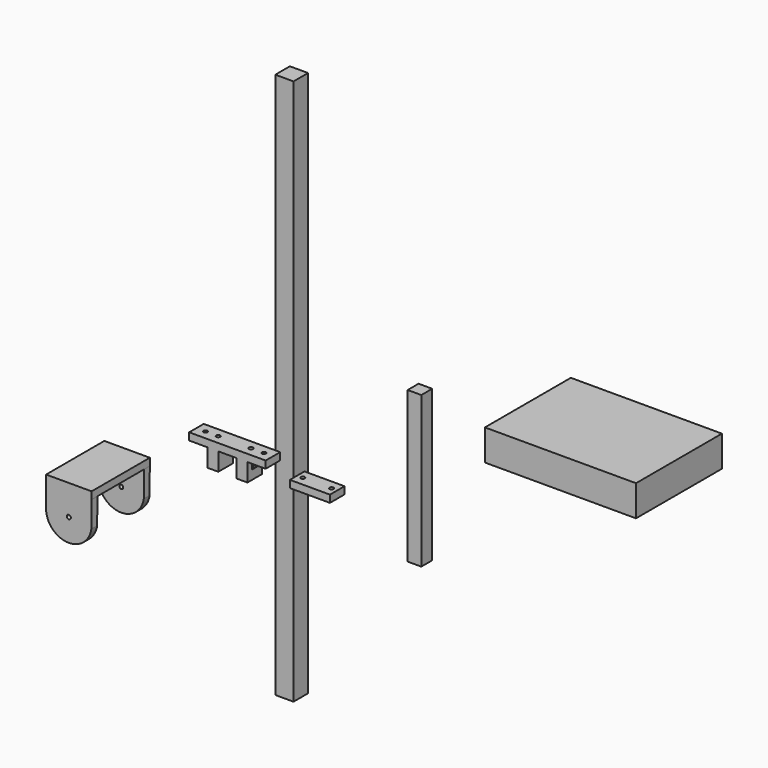
from build123d import *

# Parameters (mm, degrees)
F3_DEPTH  = 5
F4_R      = 1.1
F5_DEPTH  = 13.901
F6_START  = -5
F4_W      = 4
F4_H      = 4
F6_DEPTH  = 5
F7_W      = 22
F7_H      = 10
F8_DEPTH  = 4
F9_W      = 10
F9_H      = 4
F11_DEPTH = 10
F10_W     = 10
F10_H     = 4
F12_DEPTH = 10
F13_W     = 25
F13_H     = 40
F14_DEPTH = 4
F16_DEPTH = 40
F17_W     = 32
F17_H     = 40
F18_DEPTH = 25
F19_W     = 10
F19_H     = 10
F20_DEPTH = 150
F21_R     = 1.1
F22_DEPTH = 40.001
F23_R     = 1.1
F24_DEPTH = 159.001
F25_W     = 83
F25_H     = 59
F26_DEPTH = 8.5
F27_R     = 1.1
F28_DEPTH = 4
F29_W     = 7.5
F29_H     = 7.5
F30_DEPTH = 41.5


with BuildPart() as f3:
    # F2 (on Front) → F3 (new body, symmetric)
    with BuildSketch(Plane.XZ):
        Polygon((-11, -4.9), (-5, -4.9), (-5, 5), (5, 5), (5, -4.9), (11, -4.9), (11, 9), (-11, 9), align=None)
    extrude(amount=F3_DEPTH, both=True)

    # F4 (on face) → F5 (cut, through all)
    with BuildSketch(Plane(origin=(0, 0, -4.9), x_dir=(1, 0, 0), z_dir=(0, 0, -1))):
        with Locations((-9, 0)):
            Circle(F4_R)
        with Locations((9, 0)):
            Circle(F4_R)
    extrude(amount=-F5_DEPTH, mode=Mode.SUBTRACT)

    # F4 (on face) → F6 (cut)
    with BuildSketch(Plane(origin=(0, 0, -4.9), x_dir=(1, 0, 0), z_dir=(0, 0, -1)).offset(F6_START)):
        with Locations((-9, 0)):
            Rectangle(F4_W, F4_H)
        with Locations((-9, 0)):
            Circle(F4_R, mode=Mode.SUBTRACT)
        with Locations((9, 0)):
            Rectangle(F4_W, F4_H)
        with Locations((9, 0)):
            Circle(F4_R, mode=Mode.SUBTRACT)
    extrude(amount=-F6_DEPTH, mode=Mode.SUBTRACT)

    # F9 (on face) → F11 (join)
    with BuildSketch(Plane(origin=(-11, 0, 0), x_dir=(0, -1, 0), z_dir=(-1, 0, 0))):
        with Locations((0, 7)):
            Rectangle(F9_W, F9_H)
    extrude(amount=F11_DEPTH)

    # F10 (on face) → F12 (join)
    with BuildSketch(Plane.YZ.offset(11)):
        with Locations((0, 7)):
            Rectangle(F10_W, F10_H)
    extrude(amount=F12_DEPTH)

    # F23 (on face) → F24 (cut, through all)
    with BuildSketch(Plane.XY.offset(9)):
        with Locations((-16, 0)):
            Circle(F23_R)
        with Locations((16, 0)):
            Circle(F23_R)
    extrude(amount=-F24_DEPTH, mode=Mode.SUBTRACT)


with BuildPart() as f8:
    # F7 (on Top) → F8 (new body)
    with BuildSketch(Plane.XY):
        with Locations((45.3331142285, 0)):
            Rectangle(F7_W, F7_H)
    extrude(amount=F8_DEPTH)

    # F27 (on face) → F28 (cut, through all)
    with BuildSketch(Plane(origin=(0, 0, 0), x_dir=(1, 0, 0), z_dir=(0, 0, -1))):
        with Locations((37.4331142285, 0)):
            Circle(F27_R)
        with Locations((53.2331142285, 0)):
            Circle(F27_R)
    extrude(amount=-F28_DEPTH, mode=Mode.SUBTRACT)


with BuildPart() as f14:
    # F13 (on Top) → F14 (new body)
    with BuildSketch(Plane.XY):
        with Locations((-37.9159292206, -46.4893170172)):
            Rectangle(F13_W, F13_H)
    extrude(amount=F14_DEPTH)

    # F15 (on face) → F16 (join)
    with BuildSketch(Plane(origin=(0, -26.4893170172, 0), x_dir=(-1, 0, 0), z_dir=(0, 1, 0))):
        with BuildLine():
            Line((50.4159292206, -12.5), (50.4159292206, 0))
            Line((50.4159292206, 0), (25.4431634574, 0))
            Line((25.4431634574, 0), (25.5402434528, -14.2585226116))
            ThreePointArc((25.5402434528, -14.2585226116), (38.7973848071, -24.9688827105), (50.4159292206, -12.5))
        make_face()
    extrude(amount=-F16_DEPTH)

    # F17 (on face) → F18 (cut)
    with BuildSketch(Plane(origin=(-50.4159292206, 0, 0), x_dir=(0, -1, 0), z_dir=(-1, 0, 0))):
        with Locations((46.4893170172, -20)):
            Rectangle(F17_W, F17_H)
    extrude(amount=-F18_DEPTH, mode=Mode.SUBTRACT)

    # F21 (on face) → F22 (cut, through all)
    with BuildSketch(Plane(origin=(0, -26.4893170172, 0), x_dir=(-1, 0, 0), z_dir=(0, 1, 0))):
        with Locations((37.9159292206, -12.5)):
            Circle(F21_R)
    extrude(amount=-F22_DEPTH, mode=Mode.SUBTRACT)


with BuildPart() as f20:
    # F19 (on Top) → F20 (new body, symmetric)
    with BuildSketch(Plane.XY):
        with Locations((-25.4819318652, 70.9985667586)):
            Rectangle(F19_W, F19_H)
    extrude(amount=F20_DEPTH, both=True)


with BuildPart() as f26:
    # F25 (on Top) → F26 (new body, symmetric)
    with BuildSketch(Plane.XY):
        with Locations((116.1254188728, 108.0518476665)):
            Rectangle(F25_W, F25_H)
    extrude(amount=F26_DEPTH, both=True)


with BuildPart() as f30:
    # F29 (on Top) → F30 (new body, symmetric)
    with BuildSketch(Plane.XY):
        with Locations((70.3924739473, 39.2330829054)):
            Rectangle(F29_W, F29_H)
    extrude(amount=F30_DEPTH, both=True)


solid = Compound([f3.part, f8.part, f14.part, f20.part, f26.part, f30.part])
